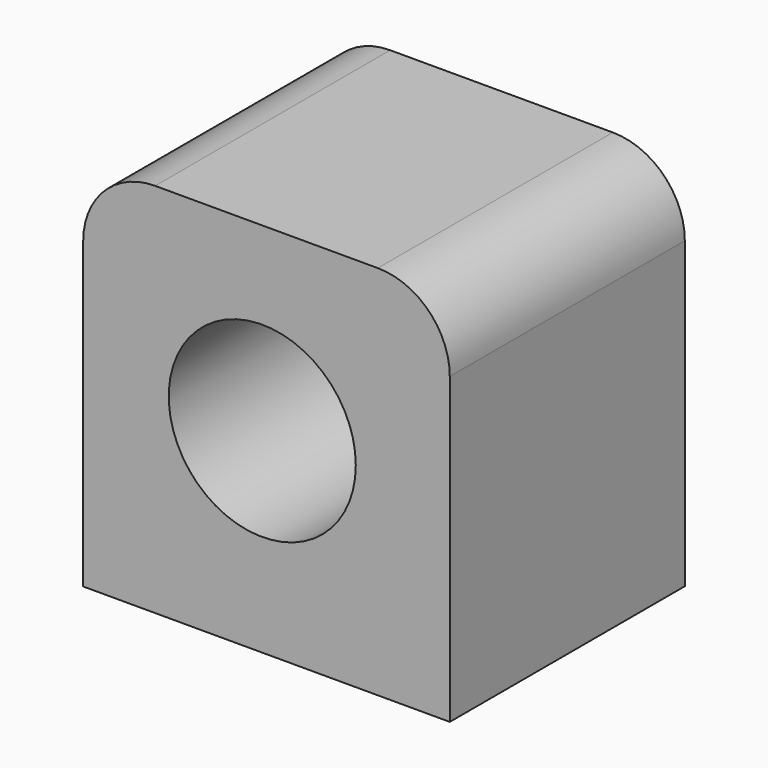
from build123d import *

# Parameters (mm, degrees)
F0_W     = 86.102046
F0_H     = 88.338636
F0_R     = 21.96539
F1_DEPTH = 69
F2_R     = 16.899495


with BuildPart() as f1:
    # F0 (on Front) → F1 (new body)
    with BuildSketch(Plane.XZ):
        with Locations((43.051023, 44.169318)):
            Rectangle(F0_W, F0_H)
        with Locations((42.05906, 45.865756)):
            Circle(F0_R, mode=Mode.SUBTRACT)
    extrude(amount=F1_DEPTH)

    # F2
    f2_edges = [f1.edges().sort_by_distance(p)[0] for p in [
        (0, -34.5, 88.338636),
        (86.102046, -34.5, 88.338636),
    ]]
    fillet(f2_edges, radius=F2_R)


solid = f1.part
